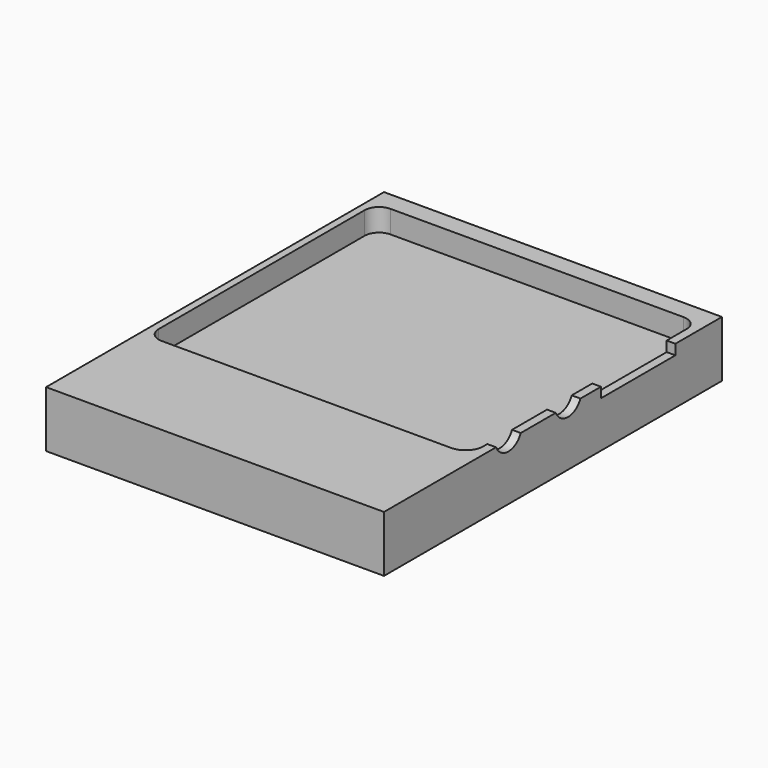
from build123d import *

# Parameters (mm, degrees)
SKETCH_W        = 60
SKETCH_H        = 75
PAD_DEPTH       = 10
POCKET_DEPTH    = 4
SKETCH002_R     = 3.003779
SKETCH002_W     = 16.509998
SKETCH002_H     = 13.460002
POCKET001_DEPTH = 5


with BuildPart() as part:
    # Sketch → Pad (new body)
    with BuildSketch(Plane.XY):
        Rectangle(SKETCH_W, SKETCH_H)
    extrude(amount=PAD_DEPTH)

    # Sketch001 (on Face6 of Pad) → Pocket (cut)
    with BuildSketch(Plane.XY.offset(10)):
        with BuildLine():
            Line((-26.160018, 34.131806), (25.909982, 34.131806))
            ThreePointArc((28.449982, 31.591806), (27.706037, 33.38786), (25.909982, 34.131806))
            Line((28.449982, 31.591806), (28.449982, -13.493194))
            ThreePointArc((25.274982, -16.668194), (27.520043, -15.738255), (28.449982, -13.493194))
            Line((-26.160018, -16.668194), (25.274982, -16.668194))
            ThreePointArc((-28.700018, -14.128194), (-27.956072, -15.924248), (-26.160018, -16.668194))
            Line((-28.700018, 31.591806), (-28.700018, -14.128194))
            ThreePointArc((-26.160018, 34.131806), (-27.956078, 33.387866), (-28.700018, 31.591806))
        make_face()
    extrude(amount=-POCKET_DEPTH, mode=Mode.SUBTRACT)

    # Sketch002 (on Face3 of Pocket) → Pocket001 (cut)
    with BuildSketch(Plane.YZ.offset(30)):
        with Locations((3.362204, 11.229303)):
            Circle(SKETCH002_R)
        with Locations((-9.887796, 11.229303)):
            Circle(SKETCH002_R)
        with Locations((18.913807, 14.92554)):
            Rectangle(SKETCH002_W, SKETCH002_H)
    extrude(amount=-POCKET001_DEPTH, mode=Mode.SUBTRACT)


solid = part.part
